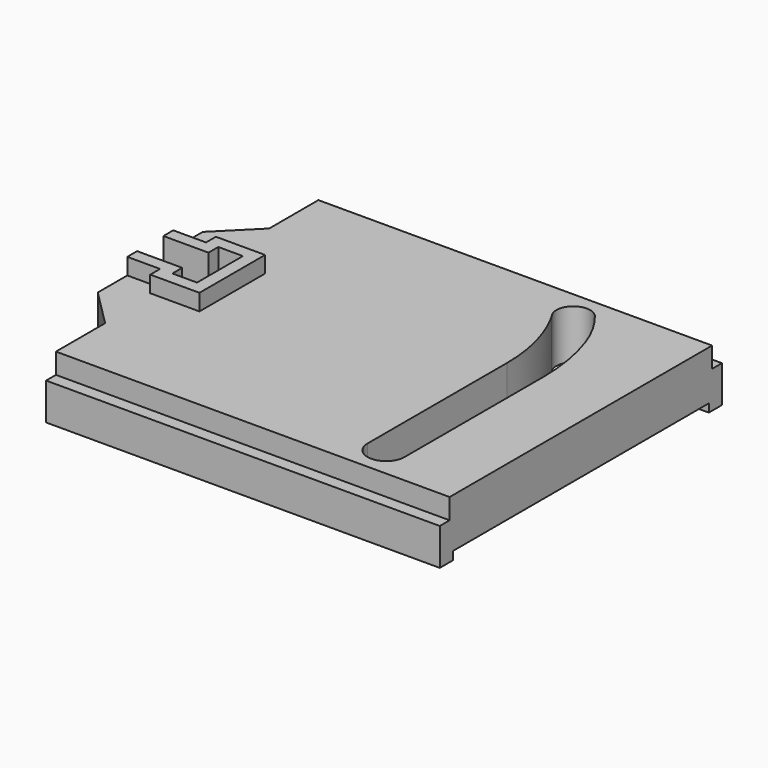
from build123d import *

# Parameters (mm, degrees)
F1_DEPTH = 7
F2_W     = 39
F2_H     = 1
F3_DEPTH = 50
F5_DEPTH = 2
F6_W     = 1.5
F6_H     = 2.5
F7_DEPTH = 50


with BuildPart() as f1:
    # F0 (on Top) → F1 (new body)
    with BuildSketch(Plane.XY):
        Polygon((-19.5, -21.5), (28.5, -21.5), (28.5, 21.5), (-19.5, 21.5), (-19.5, 12.5), (-24, 8), (-24, 2), (-18.5, 2), (-18.5, 3.5), (-15.5, 3.5), (-15.5, 2), (-15.5, 0), (-15.5, -2), (-15.5, -3.5), (-18.5, -3.5), (-18.5, -2), (-24, -2), (-24, -8), (-19.5, -12.5), align=None)
        with BuildLine():
            Line((20, 5), (20, -14))
            Line((20, -14), (20, -16.25))
            ThreePointArc((20, -16.25), (17.75, -18.5), (15.5, -16.25))
            Line((15.5, -16.25), (15.5, -14))
            Line((15.5, -14), (15.5, 5))
            ThreePointArc((15.5, 5), (14.823785, 10.240299), (12.839445, 15.137277))
            ThreePointArc((12.839445, 15.137277), (13.105805, 18.044603), (16.010887, 17.754792))
            ThreePointArc((16.010887, 17.754792), (17.529097, 15.504906), (18.639882, 13.028395))
            ThreePointArc((18.639882, 13.028395), (19.657565, 9.071396), (20, 5))
        make_face(mode=Mode.SUBTRACT)
    extrude(amount=F1_DEPTH)

    # F2 (on face) → F3 (cut)
    with BuildSketch(Plane.YZ.offset(28.5)):
        with Locations((0, 0.5)):
            Rectangle(F2_W, F2_H)
    extrude(amount=-F3_DEPTH, mode=Mode.SUBTRACT)

    # F4 (on face) → F5 (join)
    with BuildSketch(Plane.XY.offset(7)):
        Polygon((-24, -2), (-24, -3.5), (-20, -3.5), (-20, -5), (-14, -5), (-14, 5), (-20, 5), (-20, 3.5), (-24, 3.5), (-24, 2), (-18.5, 2), (-18.5, 3.5), (-15.5, 3.5), (-15.5, -3.5), (-18.5, -3.5), (-18.5, -2), align=None)
    extrude(amount=F5_DEPTH)

    # F6 (on face) → F7 (cut)
    with BuildSketch(Plane.YZ.offset(28.5)):
        with Locations((-20.75, 5.75)):
            Rectangle(F6_W, F6_H)
        with Locations((20.75, 5.75)):
            Rectangle(F6_W, F6_H)
    extrude(amount=-F7_DEPTH, mode=Mode.SUBTRACT)


solid = f1.part
